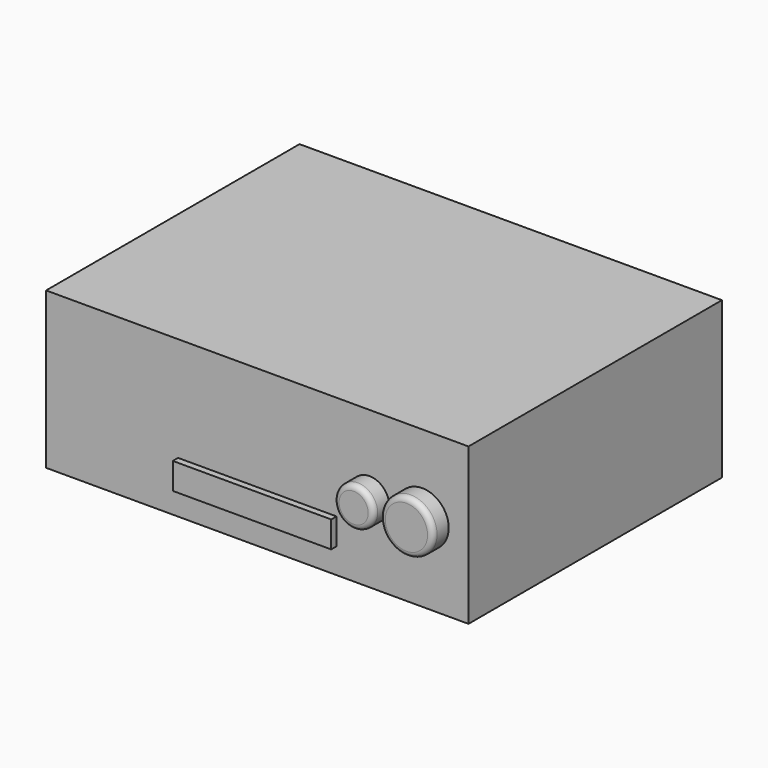
from build123d import *

# Parameters (mm, degrees)
F0_W     = 406.4
F0_H     = 150.273638
F1_DEPTH = 304.8
F2_R     = 19.05
F2_R_2   = 25.4
F3_DEPTH = 19.05
F4_R     = 5.08
F5_W     = 152.4
F5_H     = 25.4
F6_DEPTH = 6.35


with BuildPart() as f1:
    # F0 (on Front) → F1 (new body)
    with BuildSketch(Plane.XZ):
        Rectangle(F0_W, F0_H)
    extrude(amount=-F1_DEPTH)


with BuildPart() as f3:
    # F2 (on face) → F3 (new body)
    with BuildSketch(Plane.XZ):
        with Locations((107.95, 0)):
            Circle(F2_R)
        with Locations((158.75, 0)):
            Circle(F2_R_2)
    extrude(amount=F3_DEPTH)

    # F4
    f4_edges = [f3.edges().sort_by_distance(p)[0] for p in [
        (88.9, -19.05, 0),
        (133.35, -19.05, 0),
    ]]
    fillet(f4_edges, radius=F4_R)


with BuildPart() as f6:
    # F5 (on face) → F6 (new body)
    with BuildSketch(Plane.XZ):
        Rectangle(F5_W, F5_H)
    extrude(amount=F6_DEPTH)


with BuildPart() as f6_1:
    # F7: moved
    add(f6.part.moved(Location((0, 0, -38.1))))


solid = Compound([f1.part, f3.part, f6_1.part])
